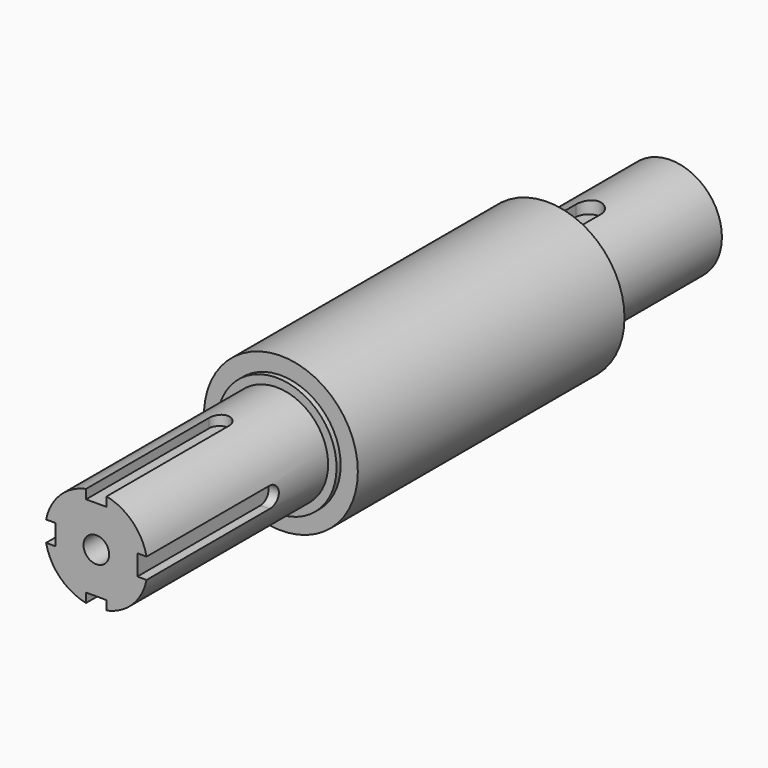
from build123d import *

# Parameters (mm, degrees)
F0_R          = 10
F1_DEPTH      = 45
F1_DEPTH_BACK = 95
F0_R_2        = 15
F2_DEPTH      = 65
F4_START      = 7.5
F4_DEPTH      = 17.5
F6_DEPTH      = 30
F7_R          = 2
F8_DEPTH      = 25
F9_R          = 2
F10_DEPTH     = 25
F11_R         = 2
F12_DEPTH     = 25
F13_R         = 2
F14_DEPTH     = 25
F16_D         = 5
F16_DEPTH     = 20
F16_TIP       = 1.5021515476
F17_R         = 11.65
F18_DEPTH     = 1


with BuildPart() as f1:
    # F0 (on Front) → F1 (new body, two sides)
    with BuildSketch(Plane.XZ) as f1_sk:
        Circle(F0_R)
    extrude(amount=F1_DEPTH)
    extrude(f1_sk.sketch, amount=-F1_DEPTH_BACK)

    # F0 (on Front) → F2 (join)
    with BuildSketch(Plane.XZ):
        Circle(F0_R_2)
        Circle(F0_R, mode=Mode.SUBTRACT)
    extrude(amount=-F2_DEPTH)

    # F3 (on Top) → F4 (cut)
    with BuildSketch(Plane.XY.offset(F4_START)):
        with BuildLine():
            ThreePointArc((2.5, 75), (0, 77.5), (-2.5, 75))
            Line((-2.5, 75), (2.5, 75))
        make_face()
        with BuildLine():
            ThreePointArc((0, 72.5), (-1.767766953, 73.232233047), (-2.5, 75))
            Line((-2.5, 75), (-2.5, 70))
            ThreePointArc((-2.5, 70), (-1.767766953, 71.767766953), (0, 72.5))
        make_face()
        with BuildLine():
            Line((2.5, 75), (-2.5, 75))
            ThreePointArc((-2.5, 75), (-1.767766953, 73.232233047), (0, 72.5))
            ThreePointArc((0, 72.5), (1.767766953, 73.232233047), (2.5, 75))
        make_face()
        with BuildLine():
            Line((2.5, 70), (2.5, 75))
            ThreePointArc((2.5, 75), (1.767766953, 73.232233047), (0, 72.5))
            ThreePointArc((0, 72.5), (1.767766953, 71.767766953), (2.5, 70))
        make_face()
        with BuildLine():
            ThreePointArc((0, 72.5), (-1.767766953, 71.767766953), (-2.5, 70))
            Line((-2.5, 70), (2.5, 70))
            ThreePointArc((2.5, 70), (1.767766953, 71.767766953), (0, 72.5))
        make_face()
        with BuildLine():
            Line((2.5, 70), (-2.5, 70))
            ThreePointArc((-2.5, 70), (0, 67.5), (2.5, 70))
        make_face()
    extrude(amount=F4_DEPTH, mode=Mode.SUBTRACT)

    # F5 (on face) → F6 (cut)
    with BuildSketch(Plane.XZ.offset(45)):
        with BuildLine():
            Line((2, 8), (2, 9.7979589711))
            ThreePointArc((2, 9.7979589711), (0, 10), (-2, 9.7979589711))
            Line((-2, 9.7979589711), (-2, 8))
            Line((-2, 8), (2, 8))
        make_face()
        with BuildLine():
            ThreePointArc((9.7979589711, -2), (9.9493615301, -1.0050896201), (10, 0))
            ThreePointArc((10, 0), (9.9493615301, 1.0050896201), (9.7979589711, 2))
            Line((9.7979589711, 2), (8, 2))
            Line((8, 2), (8, -2))
            Line((8, -2), (9.7979589711, -2))
        make_face()
        with BuildLine():
            ThreePointArc((-2, -9.7979589711), (0, -10), (2, -9.7979589711))
            Line((2, -9.7979589711), (2, -8))
            Line((2, -8), (-2, -8))
            Line((-2, -8), (-2, -9.7979589711))
        make_face()
        with BuildLine():
            Line((-8, 2), (-9.7979589711, 2))
            ThreePointArc((-9.7979589711, 2), (-10, 0), (-9.7979589711, -2))
            Line((-9.7979589711, -2), (-8, -2))
            Line((-8, -2), (-8, 2))
        make_face()
    extrude(amount=-F6_DEPTH, mode=Mode.SUBTRACT)

    # F7 (on face) → F8 (cut)
    with BuildSketch(Plane.XY.offset(8)):
        with Locations((0, -15)):
            Circle(F7_R)
    extrude(amount=F8_DEPTH, mode=Mode.SUBTRACT)

    # F9 (on face) → F10 (cut)
    with BuildSketch(Plane.YZ.offset(8)):
        with Locations((-15, 0)):
            Circle(F9_R)
    extrude(amount=F10_DEPTH, mode=Mode.SUBTRACT)

    # F11 (on face) → F12 (cut)
    with BuildSketch(Plane(origin=(0, 0, -8), x_dir=(1, 0, 0), z_dir=(0, 0, -1))):
        with Locations((0, 15)):
            Circle(F11_R)
    extrude(amount=F12_DEPTH, mode=Mode.SUBTRACT)

    # F13 (on face) → F14 (cut)
    with BuildSketch(Plane(origin=(-8, 0, 0), x_dir=(0, -1, 0), z_dir=(-1, 0, 0))):
        with Locations((15, 0)):
            Circle(F13_R)
    extrude(amount=F14_DEPTH, mode=Mode.SUBTRACT)

    # F16
    with Locations(Plane.XZ.offset(45)):
        with Locations((0, 0)):
            Hole(F16_D / 2, depth=F16_DEPTH)
            with Locations((0, 0, -(F16_DEPTH + F16_TIP / 2))):  # 118° drill point
                Cone(0, F16_D / 2, F16_TIP, mode=Mode.SUBTRACT)

    # F17 (on face) → F18 (join)
    with BuildSketch(Plane.XZ):
        Circle(F17_R)
    extrude(amount=F18_DEPTH)


solid = f1.part
